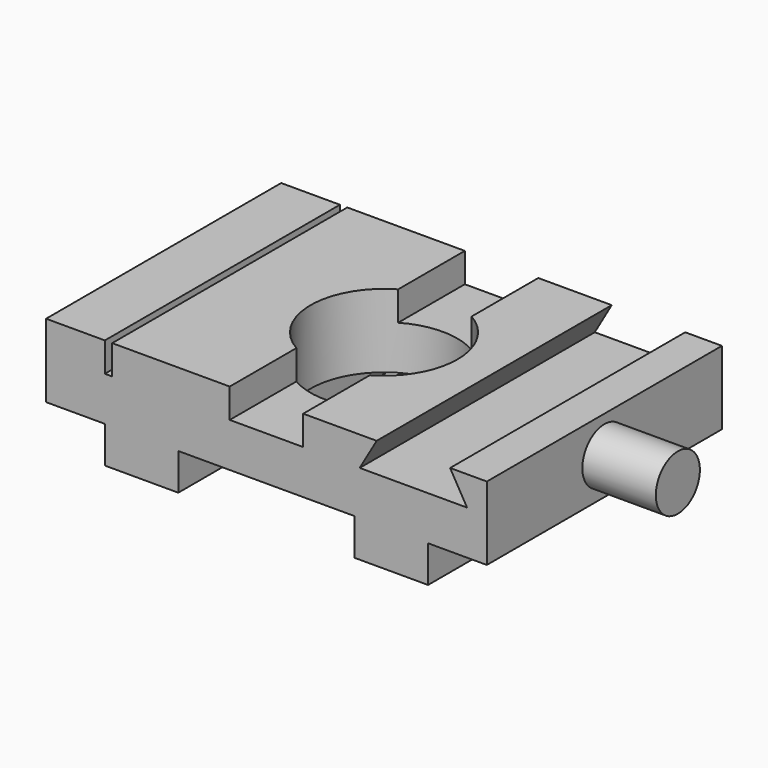
from build123d import *

# Parameters (mm, degrees)
F0_W     = 76.2
F0_H     = 50.8
F0_R     = 12.7
F1_DEPTH = 12.7
F2_W     = 1.27
F2_H     = 50.8
F3_DEPTH = 5.08
F5_DEPTH = 50.801
F6_R     = 4.7625
F7_DEPTH = 12.7
F8_W     = 12.7
F8_H     = 50.8
F9_DEPTH = 6.35


with BuildPart() as f1:
    # F0 (on Top) → F1 (new body)
    with BuildSketch(Plane.XY):
        Rectangle(F0_W, F0_H)
        Circle(F0_R, mode=Mode.SUBTRACT)
    extrude(amount=-F1_DEPTH)

    # F2 (on face) → F3 (cut)
    with BuildSketch(Plane.XY):
        with Locations((-27.305, 0)):
            Rectangle(F2_W, F2_H)
        with BuildLine():
            Line((-6.35, -10.9985226281), (-6.35, -25.4))
            Line((-6.35, -25.4), (6.35, -25.4))
            Line((6.35, -25.4), (6.35, -10.9985226281))
            ThreePointArc((6.35, -10.9985226281), (0, -12.7), (-6.35, -10.9985226281))
        make_face()
        with BuildLine():
            Line((6.35, 25.4), (-6.35, 25.4))
            Line((-6.35, 25.4), (-6.35, 10.9985226281))
            ThreePointArc((-6.35, 10.9985226281), (0, 12.7), (6.35, 10.9985226281))
            Line((6.35, 10.9985226281), (6.35, 25.4))
        make_face()
    extrude(amount=-F3_DEPTH, mode=Mode.SUBTRACT)

    # F4 (on face) → F5 (cut, through all)
    with BuildSketch(Plane.XZ.offset(25.4)):
        Polygon((31.75, 0), (19.05, 0), (16.1170606325, -5.08), (34.6829393675, -5.08), align=None)
    extrude(amount=-F5_DEPTH, mode=Mode.SUBTRACT)

    # F6 (on face) → F7 (join)
    with BuildSketch(Plane.YZ.offset(38.1)):
        with Locations((0, -6.35)):
            Circle(F6_R)
    extrude(amount=F7_DEPTH)

    # F8 (on face) → F9 (join)
    with BuildSketch(Plane(origin=(0, 0, -12.7), x_dir=(1, 0, 0), z_dir=(0, 0, -1))):
        with Locations((-21.59, 0)):
            Rectangle(F8_W, F8_H)
        with Locations((21.59, 0)):
            Rectangle(F8_W, F8_H)
    extrude(amount=F9_DEPTH)


solid = f1.part
